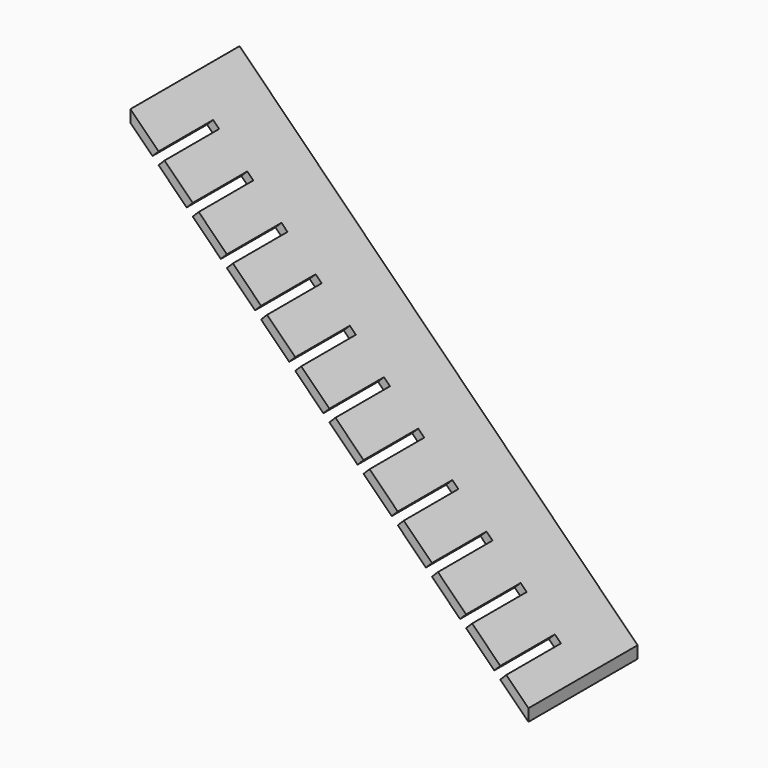
from build123d import *

# Parameters (mm, degrees)
F1_DEPTH = 152.4
F2_W     = 19.05
F2_H     = 152.4
F3_DEPTH = 19.05


with BuildPart() as f1:
    # F0 (on Front) → F1 (new body, symmetric)
    with BuildSketch(Plane.XZ):
        Polygon((-375.8118146057, 915.9322428123), (-375.8118146057, 888.9914744491), (513.1796598434, 0), (513.1796598434, 26.9407683632), align=None)
    extrude(amount=F1_DEPTH, both=True)

    # F2 (on face) → F3 (cut)
    with BuildSketch(Plane(origin=(270.0602141033, 0, 270.0602141033), x_dir=(0.7071067812, 0, -0.7071067812), z_dir=(0.7071067812, 0, 0.7071067812))):
        with Locations((264.4478174423, -76.2)):
            Rectangle(F2_W, F2_H)
        with Locations((156.4978174423, -76.2)):
            Rectangle(F2_W, F2_H)
        with Locations((48.5478174423, -76.2)):
            Rectangle(F2_W, F2_H)
        with Locations((-59.4021825577, -76.2)):
            Rectangle(F2_W, F2_H)
        with Locations((-167.3521825577, -76.2)):
            Rectangle(F2_W, F2_H)
        with Locations((-275.3021825577, -76.2)):
            Rectangle(F2_W, F2_H)
        with Locations((-383.2521825577, -76.2)):
            Rectangle(F2_W, F2_H)
        with Locations((-491.2021825577, -76.2)):
            Rectangle(F2_W, F2_H)
        with Locations((-599.1521825577, -76.2)):
            Rectangle(F2_W, F2_H)
        with Locations((-707.1021825577, -76.2)):
            Rectangle(F2_W, F2_H)
        with Locations((-815.0521825577, -76.2)):
            Rectangle(F2_W, F2_H)
    extrude(amount=-F3_DEPTH, mode=Mode.SUBTRACT)


solid = f1.part
